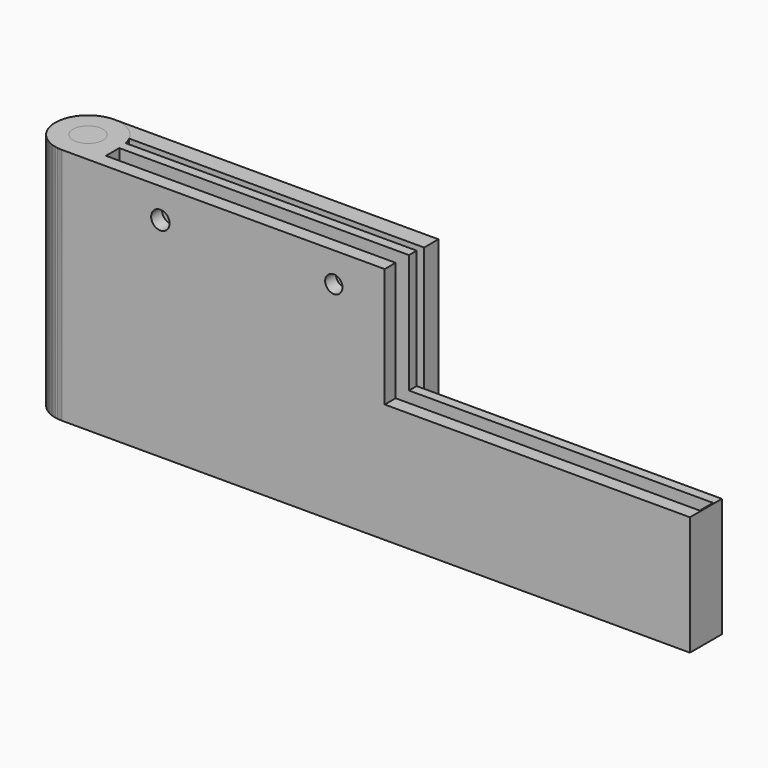
from build123d import *

# Parameters (mm, degrees)
PAD_DEPTH       = 40
SKETCH006_R     = 1.486591
SKETCH006_R_2   = 1.457401
SKETCH006_R_3   = 1.490716
SKETCH006_R_4   = 1.490718
POCKET004_DEPTH = 3.001
PAD001_DEPTH    = 40
SKETCH002_R     = 4.5
POCKET_DEPTH    = 20
SKETCH003_R     = 2.507414
POCKET001_DEPTH = 15
SKETCH004_W     = 51.202057
SKETCH004_H     = 6.85388
POCKET002_DEPTH = 20
SKETCH005_W     = 99.607782
SKETCH005_H     = 2.8
POCKET003_DEPTH = 30
SKETCH007_R     = 1.543073
SKETCH007_R_2   = 1.45762
POCKET005_DEPTH = 11.000981


with BuildPart() as obj1:
    # Sketch → Pad (new body)
    with BuildSketch(Plane.XY):
        with BuildLine():
            ThreePointArc((-0.092333, 5.499225), (-2.833181, -4.714137), (4.899375, 2.499225))
            Line((54.370086, 2.499225), (4.899375, 2.499225))
            Line((54.370086, 5.499225), (54.370086, 2.499225))
            Line((-0.092333, 5.499225), (54.370086, 5.499225))
        make_face()
    extrude(amount=-PAD_DEPTH)

    # Sketch006 → Pocket004 (cut, through all)
    with BuildSketch(Plane.XZ.offset(-2.499225)):
        with Locations((15.557346, -7.972067)):
            Circle(SKETCH006_R)
        with Locations((41.944046, -7.972067)):
            Circle(SKETCH006_R_2)
        with Locations((15.557346, -30.132898)):
            Circle(SKETCH006_R_3)
        with Locations((41.944046, -30.132898)):
            Circle(SKETCH006_R_4)
    extrude(amount=-POCKET004_DEPTH, mode=Mode.SUBTRACT)


with BuildPart() as pocket005:
    # Sketch001 → Pad001 (new body)
    with BuildSketch(Plane.XY):
        with BuildLine():
            ThreePointArc((5.366596, 1.204012), (-4.298245, 3.431485), (0.014494, -5.499981))
            Line((105.366596, -5.499981), (0.014494, -5.499981))
            Line((105.366596, 1.204012), (105.366596, -5.499981))
            Line((5.366596, 1.204012), (105.366596, 1.204012))
        make_face()
    extrude(amount=-PAD001_DEPTH)

    # Sketch002 → Pocket (cut)
    with BuildSketch(Plane(origin=(0, 0, -40), x_dir=(1, 0, 0), z_dir=(0, 0, -1))):
        Circle(SKETCH002_R)
    extrude(amount=-POCKET_DEPTH, mode=Mode.SUBTRACT)

    # Sketch003 → Pocket001 (cut)
    with BuildSketch(Plane.XY):
        Circle(SKETCH003_R)
    extrude(amount=-POCKET001_DEPTH, mode=Mode.SUBTRACT)

    # Sketch004 → Pocket002 (cut)
    with BuildSketch(Plane.XY):
        with Locations((79.765568, -2.222928)):
            Rectangle(SKETCH004_W, SKETCH004_H)
    extrude(amount=-POCKET002_DEPTH, mode=Mode.SUBTRACT)

    # Sketch005 → Pocket003 (cut)
    with BuildSketch(Plane.XY):
        with Locations((55.371944, -1.813809)):
            Rectangle(SKETCH005_W, SKETCH005_H)
    extrude(amount=-POCKET003_DEPTH, mode=Mode.SUBTRACT)

    # Sketch007 → Pocket005 (cut, through all)
    with BuildSketch(Plane.XZ.offset(5.499981)):
        with Locations((88.258736, -5)):
            Circle(SKETCH007_R)
        with Locations((16.530338, -5)):
            Circle(SKETCH007_R)
        with Locations((45.627708, -5)):
            Circle(SKETCH007_R_2)
    extrude(amount=-POCKET005_DEPTH, mode=Mode.SUBTRACT)


solid = Compound([obj1.part, pocket005.part])
